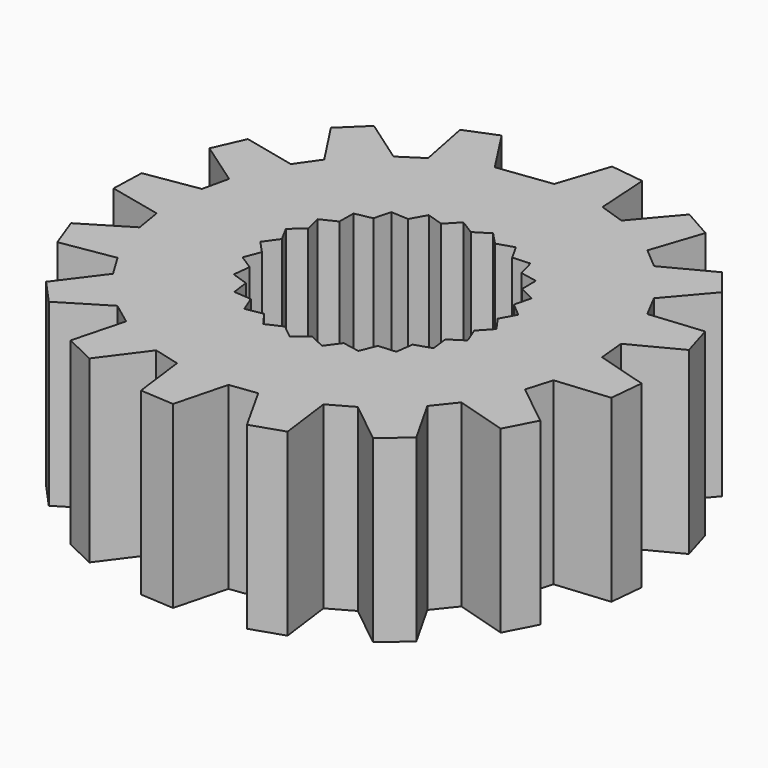
from build123d import *

# Parameters (mm, degrees)
F1_DEPTH = 5.08


with BuildPart() as f1:
    # F0 (on Top) → F1 (new body)
    with BuildSketch(Plane.XY):
        Polygon((0.478612, 7.462469), (0, 6.012231), (-1.523086, 5.815863), (-2.353894, 7.097243), (-3.241167, 6.738036), (-2.946527, 5.239563), (-3.591382, 4.819802), (-4.842358, 5.695772), (-5.529986, 5.02986), (-4.694555, 3.751453), (-5.134762, 3.12039), (-6.623025, 3.462909), (-7.010476, 2.5876), (-5.756377, 1.716126), (-5.927598, 0.965987), (-7.435621, 0.724967), (-7.466305, -0.23175), (-5.976798, -0.568909), (-5.854014, -1.328471), (-7.161378, -2.117801), (-6.830797, -3.016123), (-5.323637, -2.769667), (-4.924781, -3.427628), (-5.840374, -4.649876), (-5.19684, -5.358511), (-3.892321, -4.564482), (-3.275686, -5.024679), (-3.665728, -6.501206), (-2.803296, -6.916522), (-1.892071, -5.690997), (-1.147826, -5.886171), (-0.955243, -7.401128), (0, -7.462469), (0.384708, -5.984545), (1.147826, -5.886171), (1.89484, -7.218147), (2.803296, -6.916522), (2.605278, -5.40225), (3.275711, -5.024679), (4.467987, -5.979008), (5.19684, -5.358511), (4.445051, -4.029202), (4.924781, -3.427628), (6.388049, -3.864788), (6.830797, -3.016123), (5.635092, -2.066087), (5.854014, -1.328471), (7.374382, -1.184554), (7.466305, -0.23175), (6.001487, 0.200127), (5.927598, 0.965987), (7.282866, 1.669923), (7.010502, 2.5876), (5.490642, 2.438222), (5.134762, 3.12039), (6.12681, 4.281475), (5.529986, 5.02986), (4.177284, 4.321048), (3.591408, 4.819802), (4.075227, 6.268314), (3.241167, 6.738036), (2.25331, 5.573395), (1.523086, 5.815863), (1.427988, 7.340067), align=None)
        Polygon((-1.231849, 3.118993), (-0.760552, 2.969895), (-0.419405, 3.327578), (0, 3.065983), (0.419405, 3.327578), (0.760578, 2.969895), (1.231849, 3.118993), (1.473352, 2.687676), (1.9669, 2.714879), (2.093544, 2.23708), (2.578379, 2.140687), (2.582215, 1.646403), (3.027832, 1.432458), (2.90863, 0.952729), (3.287039, 0.634695), (3.052267, 0.199695), (3.339694, -0.202438), (3.004134, -0.565404), (3.182518, -1.026389), (2.767228, -1.294486), (2.825369, -1.785366), (2.35646, -1.941754), (2.290699, -2.431669), (1.797634, -2.466543), (1.612087, -2.924708), (1.12583, -2.835859), (0.832206, -3.233496), (0.383311, -3.026512), (0, -3.338627), (-0.383311, -3.026512), (-0.83218, -3.233496), (-1.12583, -2.835859), (-1.612087, -2.924708), (-1.797609, -2.466543), (-2.290699, -2.431669), (-2.35646, -1.941754), (-2.825369, -1.785366), (-2.767228, -1.294486), (-3.182518, -1.026389), (-3.004134, -0.565404), (-3.339694, -0.202438), (-3.052267, 0.199695), (-3.287014, 0.634695), (-2.908605, 0.952729), (-3.027807, 1.432458), (-2.582215, 1.646403), (-2.578354, 2.140687), (-2.093544, 2.23708), (-1.9669, 2.714879), (-1.473352, 2.687676), align=None, mode=Mode.SUBTRACT)
    extrude(amount=F1_DEPTH)


solid = f1.part
